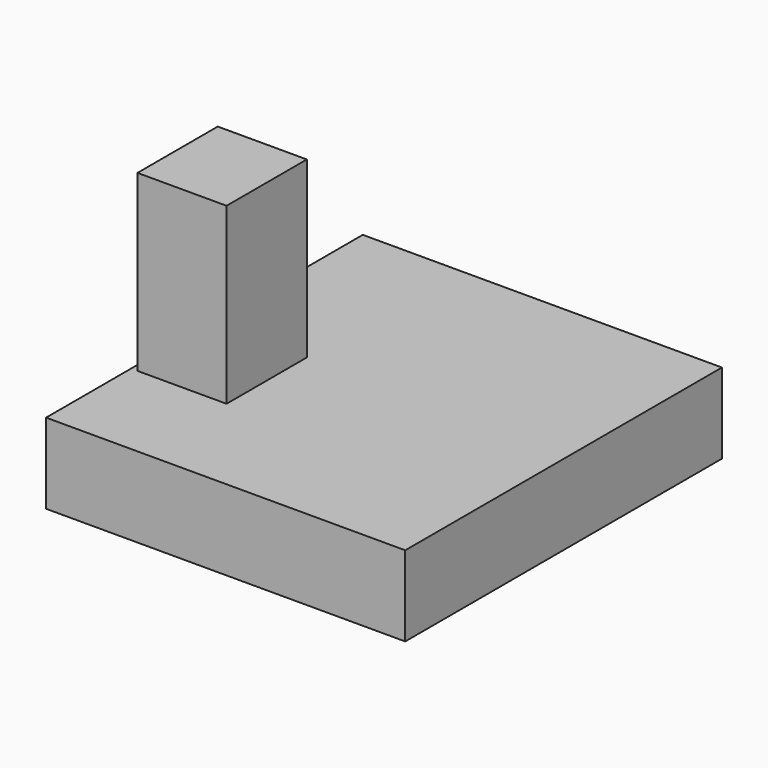
from build123d import *

# Parameters (mm, degrees)
F0_W     = 89.496315
F0_H     = 98.643005
F1_DEPTH = 20
F2_W     = 22.195481
F2_H     = 63.440859
F3_DEPTH = 25


with BuildPart() as f1:
    # F0 (on Top) → F1 (new body)
    with BuildSketch(Plane.XY):
        with Locations((3.052593, -2.165347)):
            Rectangle(F0_W, F0_H)
        with Locations((3.052593, -2.165347)):
            Rectangle(F0_W, F0_H)
    extrude(amount=F1_DEPTH)

    # F2 (on Front) → F3 (join)
    with BuildSketch(Plane.XZ):
        with Locations((-29.008787, 31.720429)):
            Rectangle(F2_W, F2_H)
    extrude(amount=F3_DEPTH)


solid = f1.part
